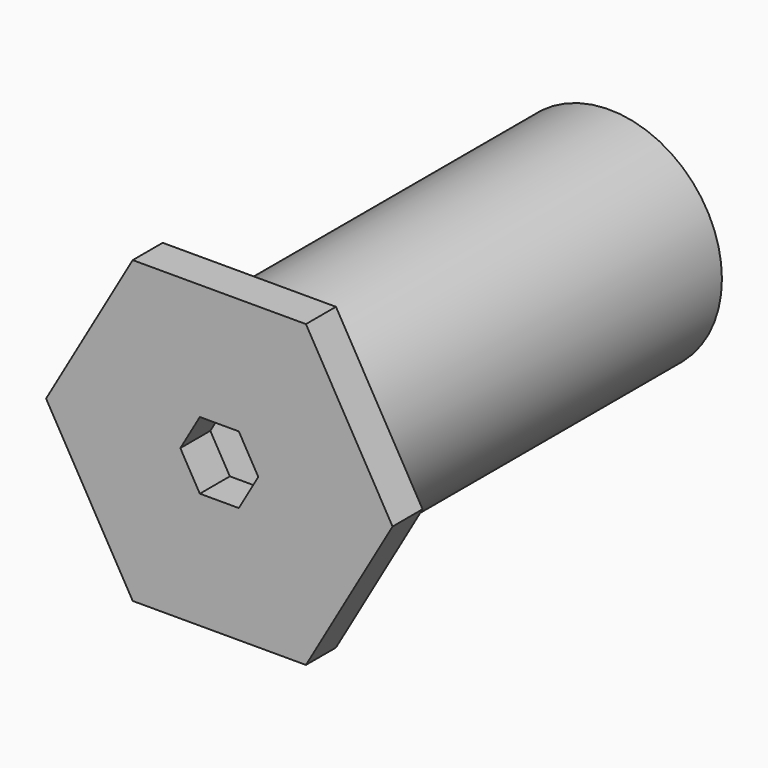
from build123d import *

# Parameters (mm, degrees)
F0_R     = 19.05
F1_DEPTH = 38.1
F3_DEPTH = 6.35


with BuildPart() as f1:
    # F0 (on Front) → F1 (new body, symmetric)
    with BuildSketch(Plane.XZ):
        Circle(F0_R)
        Polygon((-16.497784, 0), (-8.248892, 14.2875), (8.248892, 14.2875), (16.497784, 0), (8.248892, -14.2875), (-8.248892, -14.2875), align=None, mode=Mode.SUBTRACT)
    extrude(amount=F1_DEPTH, both=True)

    # F2 (on face) → F3 (join)
    with BuildSketch(Plane.XZ.offset(38.1)):
        Polygon((14.664697, 25.4), (-14.664697, 25.4), (-29.329394, 0), (-14.664697, -25.4), (14.664697, -25.4), (29.329394, 0), align=None)
        Polygon((-6.599114, 0), (-3.299557, 5.715), (3.299557, 5.715), (6.599114, 0), (3.299557, -5.715), (-3.299557, -5.715), align=None, mode=Mode.SUBTRACT)
    extrude(amount=F3_DEPTH)


solid = f1.part
